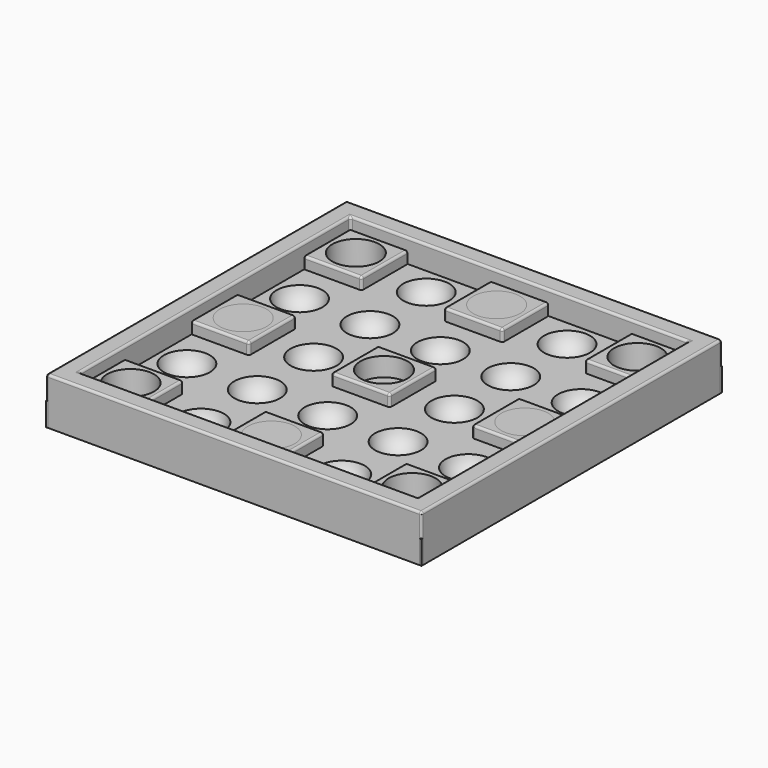
from build123d import *

# Parameters (mm, degrees)
CYLINDER001_R     = 10
CYLINDER001_DEPTH = 20
CYLINDER_R        = 10
CYLINDER_DEPTH    = 20
ARRAY001_X_COUNT  = 2
ARRAY001_X_PITCH  = 120
ARRAY001_Y_COUNT  = 2
ARRAY001_Y_PITCH  = 120
BOX001_W          = 25
BOX001_H          = 25
BOX001_DEPTH      = 5
FILLET_R          = 1
ARRAY002_X_COUNT  = 3
ARRAY002_X_PITCH  = 60
ARRAY002_Y_COUNT  = 3
ARRAY002_Y_PITCH  = 60
ARRAY_X_COUNT     = 5
ARRAY_X_PITCH     = 30
ARRAY_Y_COUNT     = 5
ARRAY_Y_PITCH     = 30
BOX_W             = 160
BOX_H             = 160
BOX_DEPTH         = 10
BOX003_W          = 144
BOX003_H          = 144
BOX003_DEPTH      = 10
BOX002_W          = 160
BOX002_H          = 160
BOX002_DEPTH      = 10
FILLET001_R       = 1
FILLET002_R       = 1
FILLET003_R       = 1
FILLET004_R       = 1
ARRAY003_X_COUNT  = 5
ARRAY003_X_PITCH  = 30
ARRAY003_Y_COUNT  = 5
ARRAY003_Y_PITCH  = 30
FILLET005_R       = 0.9
FILLET006_R       = 0.9


with BuildPart() as obj1:
    # Cylinder001 → Cylinder001 (new body)
    with BuildSketch(Plane(origin=(80, 80, 2), x_dir=(1, 0, 0), z_dir=(0, 0, 1))):
        Circle(CYLINDER001_R)
    extrude(amount=CYLINDER001_DEPTH)


with BuildPart() as obj2:
    # Cylinder → Cylinder (new body)
    with BuildSketch(Plane(origin=(20, 20, 2), x_dir=(1, 0, 0), z_dir=(0, 0, 1))):
        Circle(CYLINDER_R)
    extrude(amount=CYLINDER_DEPTH)

    # Array001 X: obj2_2


with BuildPart() as obj2_1:
    add(obj2.part)
    with Locations(*[(i * ARRAY001_X_PITCH, 0, 0) for i in range(1, ARRAY001_X_COUNT)]):
        add(obj2.part)

    # Array001 Y: obj2_2


with BuildPart() as obj2_2:
    add(obj2_1.part)
    with Locations(*[(0, i * ARRAY001_Y_PITCH, 0) for i in range(1, ARRAY001_Y_COUNT)]):
        add(obj2_1.part)

    # Fusion: union obj1
    add(obj1.part)


with BuildPart() as obj3:
    # Box001 → Box001 (new body)
    with BuildSketch(Plane(origin=(7.5, 7.5, 10), x_dir=(1, 0, 0), z_dir=(0, 0, 1))):
        with Locations((12.5, 12.5)):
            Rectangle(BOX001_W, BOX001_H)
    extrude(amount=BOX001_DEPTH)

    # Fillet
    fillet_edges = [obj3.edges().sort_by_distance(p)[0] for p in [
        (7.5, 7.5, 12.5),
        (7.5, 20, 15),
        (7.5, 32.5, 12.5),
        (32.5, 7.5, 12.5),
        (32.5, 20, 15),
        (32.5, 32.5, 12.5),
        (20, 7.5, 15),
        (20, 32.5, 15),
    ]]
    fillet(fillet_edges, radius=FILLET_R)

    # Array002 X: obj3 ×3


with BuildPart() as obj3_1:
    add(obj3.part)
    with Locations(*[(i * ARRAY002_X_PITCH, 0, 0) for i in range(1, ARRAY002_X_COUNT)]):
        add(obj3.part)

    # Array002 Y: obj3 ×3


with BuildPart() as obj3_2:
    add(obj3_1.part)
    with Locations(*[(0, i * ARRAY002_Y_PITCH, 0) for i in range(1, ARRAY002_Y_COUNT)]):
        add(obj3_1.part)


with BuildPart() as obj4:
    # Sphere → Sphere (revolve)
    with BuildSketch(Plane(origin=(20, 20, 12), x_dir=(1, 0, 0), z_dir=(0, -1, 0))):
        with BuildLine():
            ThreePointArc((0, -10), (10, 0), (0, 10))
            Line((0, 10), (0, -10))
        make_face()
    revolve(axis=Axis((20, 20, 12), (0, 0, 1)))

    # Array X: obj4 ×5


with BuildPart() as obj4_1:
    add(obj4.part)
    with Locations(*[(i * ARRAY_X_PITCH, 0, 0) for i in range(1, ARRAY_X_COUNT)]):
        add(obj4.part)

    # Array Y: obj4 ×5


with BuildPart() as obj4_2:
    add(obj4_1.part)
    with Locations(*[(0, i * ARRAY_Y_PITCH, 0) for i in range(1, ARRAY_Y_COUNT)]):
        add(obj4_1.part)


with BuildPart() as base:
    # Box → Box (new body)
    with BuildSketch(Plane.XY):
        with Locations((80, 80)):
            Rectangle(BOX_W, BOX_H)
    extrude(amount=BOX_DEPTH)


with BuildPart() as obj5:
    # Cut base: copy of base
    add(base.part)

    # Cut: cut obj4
    add(obj4_2.part, mode=Mode.SUBTRACT)

    # Fusion001: union obj3
    add(obj3_2.part)

    # Cut001: cut obj2
    add(obj2_2.part, mode=Mode.SUBTRACT)


with BuildPart() as sphere:
    # Sphere001 → Sphere001 (revolve)
    with BuildSketch(Plane(origin=(50, 20, 1), x_dir=(1, 0, 0), z_dir=(0, -1, 0))):
        with BuildLine():
            ThreePointArc((5.908847, 1.041889), (3.856726, 4.596267), (0, 6))
            Line((0, 6), (0, 1.041889))
            Line((0, 1.041889), (5.908847, 1.041889))
        make_face()
    revolve(axis=Axis((50, 20, 1), (0, 0, 1)))


with BuildPart() as cube001:
    # Box003 → Box003 (new body)
    with BuildSketch(Plane(origin=(8, 8, 27), x_dir=(1, 0, 0), z_dir=(0, 0, 1))):
        with Locations((72, 72)):
            Rectangle(BOX003_W, BOX003_H)
    extrude(amount=BOX003_DEPTH)


with BuildPart() as obj6:
    # Box002 → Box002 (new body)
    with BuildSketch(Plane.XY.offset(27)):
        with Locations((80, 80)):
            Rectangle(BOX002_W, BOX002_H)
    extrude(amount=BOX002_DEPTH)

    # Cut005: cut Cube001
    add(cube001.part, mode=Mode.SUBTRACT)


with BuildPart() as obj6_1:
    # Cut005 placement: moved
    add(obj6.part.moved(Location((0, 0, -17))))

    # Fillet001
    fillet001_edges = [obj6_1.edges().sort_by_distance(p)[0] for p in [
        (0, 80, 20),
        (80, 0, 20),
        (80, 160, 20),
        (160, 80, 20),
    ]]
    fillet(fillet001_edges, radius=FILLET001_R)

    # Fillet002
    fillet002_edges = [obj6_1.edges().sort_by_distance(p)[0] for p in [
        (80, 152, 20),
        (8, 80, 20),
        (80, 8, 20),
        (152, 80, 20),
    ]]
    fillet(fillet002_edges, radius=FILLET002_R)

    # Fillet003
    fillet003_edges = [obj6_1.edges().sort_by_distance(p)[0] for p in [
        (7.646049, 152.353951, 19.763296),
        (8, 152, 14.5),
    ]]
    fillet(fillet003_edges, radius=FILLET003_R)

    # Fillet004
    fillet004_edges = [obj6_1.edges().sort_by_distance(p)[0] for p in [
        (152.353951, 152.353951, 19.763296),
        (152, 152, 14.5),
        (152.353951, 7.646049, 19.763296),
        (152, 8, 14.5),
        (7.646049, 7.646049, 19.763296),
        (8, 8, 14.5),
    ]]
    fillet(fillet004_edges, radius=FILLET004_R)


with BuildPart() as cono_alto:
    # Cone001 → Cone001 (revolve)
    with BuildSketch(Plane(origin=(20, 80, 7), x_dir=(1, 0, 0), z_dir=(0, -1, 0))):
        Polygon((0, 0), (7, 0), (10, 8), (0, 8), align=None)
    revolve(axis=Axis((20, 80, 7), (0, 0, 1)))


with BuildPart() as clone:
    # Clone base: copy of Cono alto
    add(cono_alto.part)


with BuildPart() as clone_1:
    # Clone placement: moved
    add(clone.part.moved(Location((60, 60, 0))))


with BuildPart() as fusion003:
    # Fusion003 base: copy of Cono alto
    add(cono_alto.part)

    # Fusion003: union Clone
    add(clone_1.part)


with BuildPart() as fusion004:
    # Clone001 base: copy of Cono alto
    add(cono_alto.part)


with BuildPart() as fusion004_1:
    # Clone001 placement: moved
    add(fusion004.part.moved(Location((60, -60, 0))))

    # Fusion004: union Fusion003
    add(fusion003.part)


with BuildPart() as obj7_altos:
    # Clone002 base: copy of Cono alto
    add(cono_alto.part)


with BuildPart() as obj7_altos_1:
    # Clone002 placement: moved
    add(obj7_altos.part.moved(Location((120, 0, 0))))

    # Fusion005: union Fusion004
    add(fusion004_1.part)


with BuildPart() as obj7:
    # Cone → Cone (revolve)
    with BuildSketch(Plane(origin=(20, 20, 2), x_dir=(1, 0, 0), z_dir=(0, -1, 0))):
        Polygon((0, 0), (7, 0), (10, 8), (0, 8), align=None)
    revolve(axis=Axis((20, 20, 2), (0, 0, 1)))

    # Array003 X: obj7 ×5


with BuildPart() as obj7_1:
    add(obj7.part)
    with Locations(*[(i * ARRAY003_X_PITCH, 0, 0) for i in range(1, ARRAY003_X_COUNT)]):
        add(obj7.part)

    # Array003 Y: obj7 ×5


with BuildPart() as obj7_2:
    add(obj7_1.part)
    with Locations(*[(0, i * ARRAY003_Y_PITCH, 0) for i in range(1, ARRAY003_Y_COUNT)]):
        add(obj7_1.part)


with BuildPart() as obj8:
    # Cut002 base: copy of base
    add(base.part)

    # Cut002: cut obj7
    add(obj7_2.part, mode=Mode.SUBTRACT)


with BuildPart() as obj9:
    # Fusion002 base: copy of obj3
    add(obj3_2.part)

    # Fusion002: union obj8
    add(obj8.part)

    # Cut003: cut obj2
    add(obj2_2.part, mode=Mode.SUBTRACT)

    # Cut004: cut obj7_altos
    add(obj7_altos_1.part, mode=Mode.SUBTRACT)

    # Fusion006: union obj6
    add(obj6_1.part)

    # Fillet005
    fillet005_edges = [obj9.edges().sort_by_distance(p)[0] for p in [
        (160, 0, 9.5),
    ]]
    fillet(fillet005_edges, radius=FILLET005_R)

    # Fillet006
    fillet006_edges = [obj9.edges().sort_by_distance(p)[0] for p in [
        (0, 0, 9.5),
        (0, 160, 9.5),
        (160, 160, 9.5),
    ]]
    fillet(fillet006_edges, radius=FILLET006_R)


with BuildPart() as obj10:
    # Cone002 → Cone002 (revolve)
    with BuildSketch(Plane(origin=(20, 80, -1), x_dir=(1, 0, 0), z_dir=(0, -1, 0))):
        Polygon((0, 0), (7, 0), (10, 8), (0, 8), align=None)
    revolve(axis=Axis((20, 80, -1), (0, 0, 1)))


with BuildPart() as obj11:
    # Clone003 base: copy of obj10
    add(obj10.part)


with BuildPart() as obj11_1:
    # Clone003 placement: moved
    add(obj11.part.moved(Location((120, 0, 0))))


with BuildPart() as obj12:
    # Clone004 base: copy of obj10
    add(obj10.part)


with BuildPart() as obj12_1:
    # Clone004 placement: moved
    add(obj12.part.moved(Location((60, 60, 0))))


with BuildPart() as obj13:
    # Clone005 base: copy of obj10
    add(obj10.part)


with BuildPart() as obj13_1:
    # Clone005 placement: moved
    add(obj13.part.moved(Location((60, -60, 0))))


with BuildPart() as obj14:
    # Clone006 base: copy of obj10
    add(obj10.part)


with BuildPart() as obj14_1:
    # Clone006 placement: moved
    add(obj14.part.moved(Location((60, 0, 0))))


solid = Compound([obj5.part, sphere.part, obj9.part, obj10.part, obj11_1.part, obj12_1.part, obj13_1.part, obj14_1.part])
